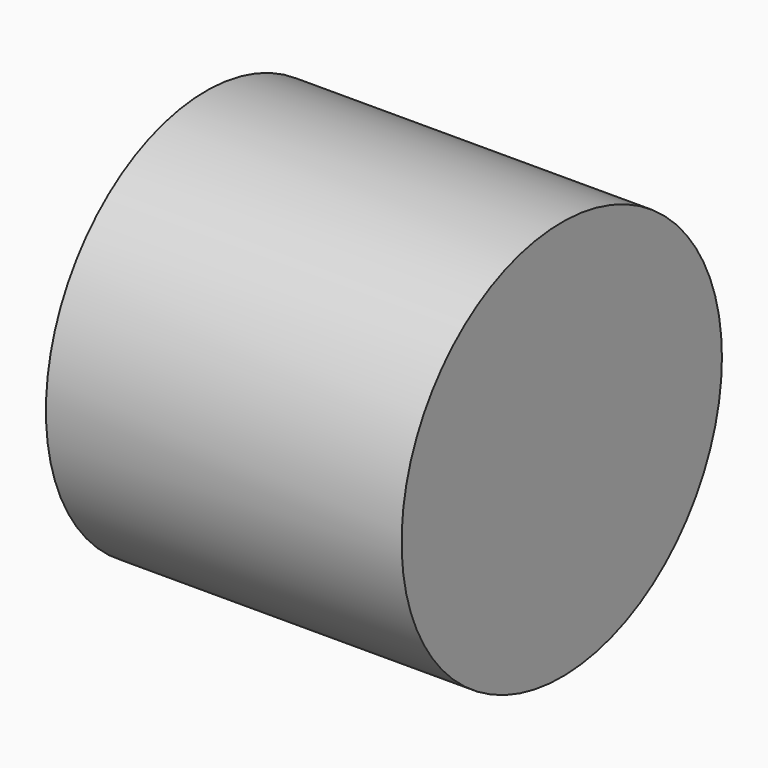
from build123d import *

# Parameters (mm, degrees)
F0_R     = 63.186007
F2_DEPTH = 25.4
F3_DEPTH = 112.268


with BuildPart() as f2:
    # F0 (on Right) → F2 (new body)
    with BuildSketch(Plane.YZ):
        Circle(F0_R)
    extrude(amount=F2_DEPTH)

    # F0 (on Right) → F3 (join)
    with BuildSketch(Plane.YZ):
        Circle(F0_R)
    extrude(amount=F3_DEPTH)


solid = f2.part
